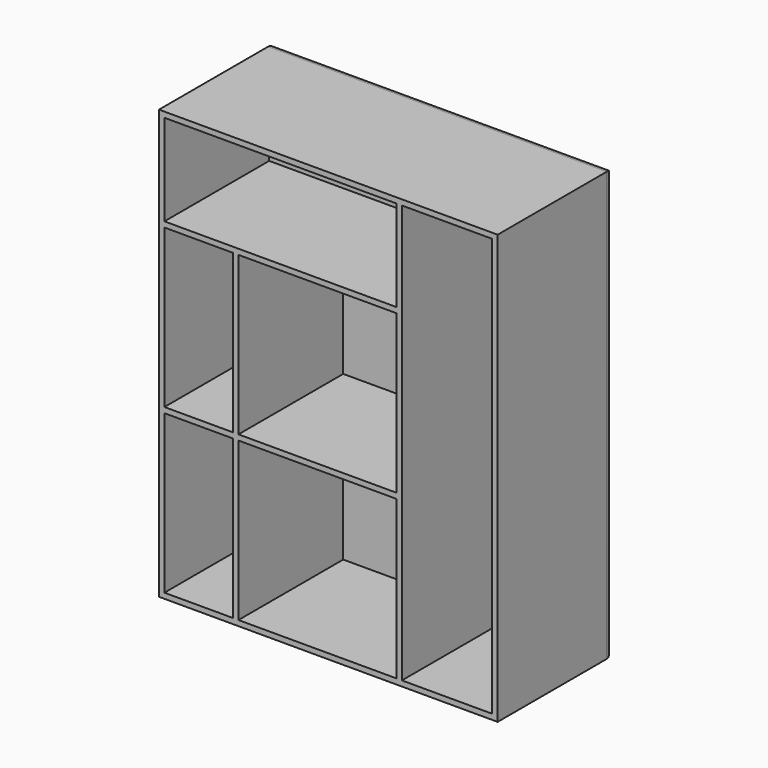
from build123d import *

# Parameters (mm, degrees)
SKETCH009_W   = 75
SKETCH009_H   = 95
PAD005_DEPTH  = 3
SKETCH010_W   = 75
SKETCH010_H   = 95
SKETCH010_W_2 = 51.4
SKETCH010_H_2 = 20.2
SKETCH010_W_3 = 20
SKETCH010_H_3 = 92.6
SKETCH010_W_4 = 15.2
SKETCH010_H_4 = 35
SKETCH010_W_5 = 35
PAD006_DEPTH  = 30
FILLET003_R   = 1.8


with BuildPart() as part:
    # Sketch009 → Pad005 (new body)
    with BuildSketch(Plane.XZ):
        Rectangle(SKETCH009_W, SKETCH009_H)
    extrude(amount=PAD005_DEPTH)

    # Sketch010 → Pad006 (join)
    with BuildSketch(Plane.XZ.offset(2)):
        Rectangle(SKETCH010_W, SKETCH010_H)
        with Locations((-10.6, 36.2)):
            Rectangle(SKETCH010_W_2, SKETCH010_H_2, mode=Mode.SUBTRACT)
        with Locations((26.3, 0)):
            Rectangle(SKETCH010_W_3, SKETCH010_H_3, mode=Mode.SUBTRACT)
        with Locations((-28.7, 7.4)):
            Rectangle(SKETCH010_W_4, SKETCH010_H_4, mode=Mode.SUBTRACT)
        with Locations((-28.7, -28.8)):
            Rectangle(SKETCH010_W_4, SKETCH010_H_4, mode=Mode.SUBTRACT)
        with Locations((-2.4, 7.4)):
            Rectangle(SKETCH010_W_5, SKETCH010_H_4, mode=Mode.SUBTRACT)
        with Locations((-2.4, -28.8)):
            Rectangle(SKETCH010_W_5, SKETCH010_H_4, mode=Mode.SUBTRACT)
    extrude(amount=PAD006_DEPTH)

    # Fillet003
    fillet003_edges = [part.edges().sort_by_distance(p)[0] for p in [
        (0, 0, 47.5),
        (37.5, 0, 0),
        (0, 0, -47.5),
        (-37.5, 0, 0),
    ]]
    fillet(fillet003_edges, radius=FILLET003_R)


solid = part.part
